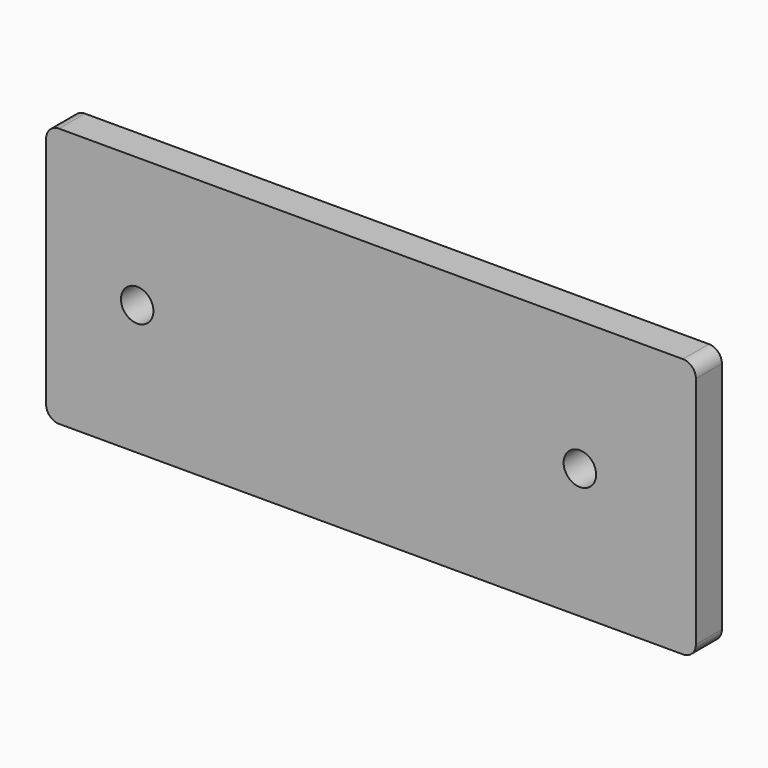
from build123d import *

# Parameters (mm, degrees)
F0_W     = 254
F0_H     = 101.6
F1_DEPTH = 12.7
F3_D     = 12.7
F4_R     = 5.08
F5_R     = 5.08
F6_R     = 5.08
F7_R     = 5.08


with BuildPart() as f1:
    # F0 (on Front) → F1 (new body)
    with BuildSketch(Plane.XZ):
        with Locations((38.009989, -12.850277)):
            Rectangle(F0_W, F0_H)
    extrude(amount=F1_DEPTH)

    # F3 (through all)
    with Locations(Plane.XZ.offset(12.7)):
        with Locations((-53.385181, -12.850277), (119.645597, -12.850277)):
            Hole(F3_D / 2)

    # F4
    f4_edges = [f1.edges().sort_by_distance(p)[0] for p in [
        (-88.990011, -6.35, 37.949723),
    ]]
    fillet(f4_edges, radius=F4_R)

    # F5
    f5_edges = [f1.edges().sort_by_distance(p)[0] for p in [
        (165.009989, -6.35, 37.949723),
    ]]
    fillet(f5_edges, radius=F5_R)

    # F6
    f6_edges = [f1.edges().sort_by_distance(p)[0] for p in [
        (-88.990011, -6.35, -63.650277),
    ]]
    fillet(f6_edges, radius=F6_R)

    # F7
    f7_edges = [f1.edges().sort_by_distance(p)[0] for p in [
        (165.009989, -6.35, -63.650277),
    ]]
    fillet(f7_edges, radius=F7_R)


solid = f1.part
